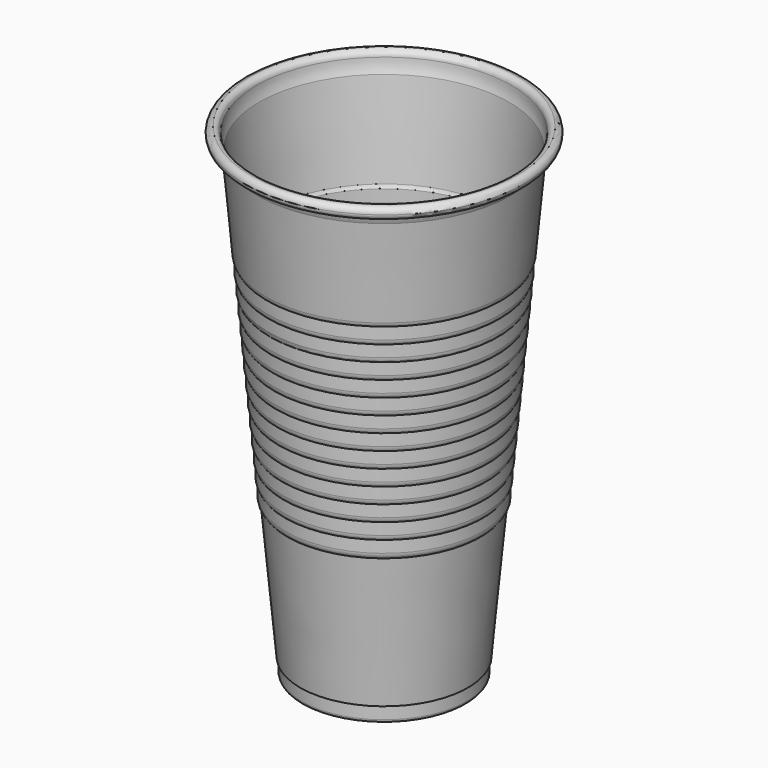
from build123d import *

# Parameters (mm, degrees)
F3_R = 0.8


with BuildPart() as f2:
    # F1 (on Front) → F2 (revolve)
    with BuildSketch(Plane.XZ):
        with BuildLine():
            Line((-33.035817, 120.350934), (-33.357212, 120.733956))
            ThreePointArc((-33.357212, 120.733956), (-34.906308, 121.922618), (-33, 121.5))
            ThreePointArc((-33, 121.5), (-32.824888, 119.657653), (-32.305822, 117.881287))
            Line((-32.305822, 117.881287), (-30.162945, 94.5))
            ThreePointArc((-30.162945, 94.5), (-30.042672, 93.974773), (-29.787879, 93.5))
            Line((-29.787879, 93.5), (-29.787879, 90.5))
            ThreePointArc((-29.787879, 90.5), (-29.689615, 89.877515), (-29.40438, 89.315569))
            Line((-29.40438, 89.315569), (-29.40438, 86.315569))
            ThreePointArc((-29.40438, 86.315569), (-29.306115, 85.693084), (-29.02088, 85.131137))
            Line((-29.02088, 85.131137), (-29.02088, 82.131137))
            ThreePointArc((-29.02088, 82.131137), (-28.922616, 81.508652), (-28.63738, 80.946706))
            Line((-28.63738, 80.946706), (-28.63738, 77.946706))
            ThreePointArc((-28.63738, 77.946706), (-28.539116, 77.324221), (-28.25388, 76.762274))
            ThreePointArc((-28.25388, 76.762274), (-28.024997, 76.497572), (-27.75388, 76.276324))
            Line((-27.75388, 76.276324), (-27.75388, 76.937063))
            ThreePointArc((-27.75388, 76.937063), (-28.038276, 77.406694), (-28.13738, 77.946706))
            Line((-28.13738, 77.946706), (-28.13738, 81.121495))
            ThreePointArc((-28.13738, 81.121495), (-28.421776, 81.591126), (-28.52088, 82.131137))
            Line((-28.52088, 82.131137), (-28.52088, 85.305926))
            ThreePointArc((-28.52088, 85.305926), (-28.805275, 85.775557), (-28.90438, 86.315569))
            Line((-28.90438, 86.315569), (-28.90438, 89.490358))
            ThreePointArc((-28.90438, 89.490358), (-29.188775, 89.959988), (-29.287879, 90.5))
            Line((-29.287879, 90.5), (-29.287879, 93.674789))
            ThreePointArc((-29.287879, 93.674789), (-29.546123, 94.080039), (-29.665032, 94.545633))
            Line((-29.665032, 94.545633), (-31.814606, 118))
            ThreePointArc((-31.814606, 118), (-32.32704, 119.716762), (-32.5, 121.500002))
            ThreePointArc((-32.5, 121.500002), (-32.93934, 122.560661), (-34, 123))
            ThreePointArc((-34, 123), (-35.06066, 122.56066), (-35.5, 121.5))
            ThreePointArc((-35.5, 121.5), (-35.06066, 120.43934), (-34, 120))
            ThreePointArc((-34, 120), (-33.486969, 120.090461), (-33.035817, 120.350934))
        make_face()
        with BuildLine():
            ThreePointArc((-27.75388, 76.276324), (-28.024997, 76.497572), (-28.25388, 76.762274))
            Line((-28.25388, 76.762274), (-28.25388, 73.762274))
            ThreePointArc((-28.25388, 73.762274), (-28.155616, 73.139789), (-27.87038, 72.577843))
            Line((-27.87038, 72.577843), (-27.87038, 69.577843))
            ThreePointArc((-27.87038, 69.577843), (-27.772116, 68.955358), (-27.48688, 68.393412))
            Line((-27.48688, 68.393412), (-27.48688, 65.393412))
            ThreePointArc((-27.48688, 65.393412), (-27.388616, 64.770927), (-27.103381, 64.20898))
            Line((-27.103381, 64.20898), (-27.103381, 61.20898))
            ThreePointArc((-27.103381, 61.20898), (-27.005117, 60.586495), (-26.719881, 60.024549))
            Line((-26.719881, 60.024549), (-26.719881, 57.024549))
            ThreePointArc((-26.719881, 57.024549), (-26.621617, 56.402064), (-26.336381, 55.840117))
            Line((-26.336381, 55.840117), (-26.336381, 52.840117))
            ThreePointArc((-26.336381, 52.840117), (-26.238117, 52.217632), (-25.952881, 51.655686))
            Line((-25.952881, 51.655686), (-25.952881, 48.655686))
            ThreePointArc((-25.952881, 48.655686), (-25.854617, 48.033201), (-25.569381, 47.471255))
            Line((-25.569381, 47.471255), (-25.569381, 44.471255))
            ThreePointArc((-25.569381, 44.471255), (-25.471117, 43.84877), (-25.185882, 43.286823))
            Line((-25.185882, 43.286823), (-25.185882, 40.286823))
            ThreePointArc((-25.185882, 40.286823), (-25.022313, 39.490378), (-24.558085, 38.822866))
            Line((-24.558085, 38.822866), (-21.366597, 4))
            Line((-21.366597, 4), (-21, 4))
            Line((-21, 4), (-21, 0))
            Line((-21, 0), (0, 0))
            Line((0, 0), (0, 0.5))
            Line((0, 0.5), (-20.5, 0.5))
            Line((-20.5, 0.5), (-20.5, 4.5))
            Line((-20.5, 4.5), (-20.910326, 4.5))
            Line((-20.910326, 4.5), (-24.078737, 39.071067))
            ThreePointArc((-24.078737, 39.071067), (-24.525655, 39.607359), (-24.685882, 40.286823))
            Line((-24.685882, 40.286823), (-24.685882, 43.461612))
            ThreePointArc((-24.685882, 43.461612), (-24.970277, 43.931243), (-25.069381, 44.471255))
            Line((-25.069381, 44.471255), (-25.069381, 47.646043))
            ThreePointArc((-25.069381, 47.646043), (-25.353777, 48.115674), (-25.452881, 48.655686))
            Line((-25.452881, 48.655686), (-25.452881, 51.830475))
            ThreePointArc((-25.452881, 51.830475), (-25.737277, 52.300106), (-25.836381, 52.840117))
            Line((-25.836381, 52.840117), (-25.836381, 56.014906))
            ThreePointArc((-25.836381, 56.014906), (-26.120777, 56.484537), (-26.219881, 57.024549))
            Line((-26.219881, 57.024549), (-26.219881, 60.199338))
            ThreePointArc((-26.219881, 60.199338), (-26.504277, 60.668969), (-26.603381, 61.20898))
            Line((-26.603381, 61.20898), (-26.603381, 64.383769))
            ThreePointArc((-26.603381, 64.383769), (-26.887776, 64.8534), (-26.98688, 65.393412))
            Line((-26.98688, 65.393412), (-26.98688, 68.568201))
            ThreePointArc((-26.98688, 68.568201), (-27.271276, 69.037831), (-27.37038, 69.577843))
            Line((-27.37038, 69.577843), (-27.37038, 72.752632))
            ThreePointArc((-27.37038, 72.752632), (-27.654776, 73.222263), (-27.75388, 73.762274))
            Line((-27.75388, 73.762274), (-27.75388, 76.276324))
        make_face()
    revolve(axis=Axis((0, 0, 61.5), (0, 0, 1)))

    # F3
    f3_edges = [f2.edges().sort_by_distance(p)[0] for p in [
        (21, 0, 0),
    ]]
    fillet(f3_edges, radius=F3_R)


solid = f2.part
